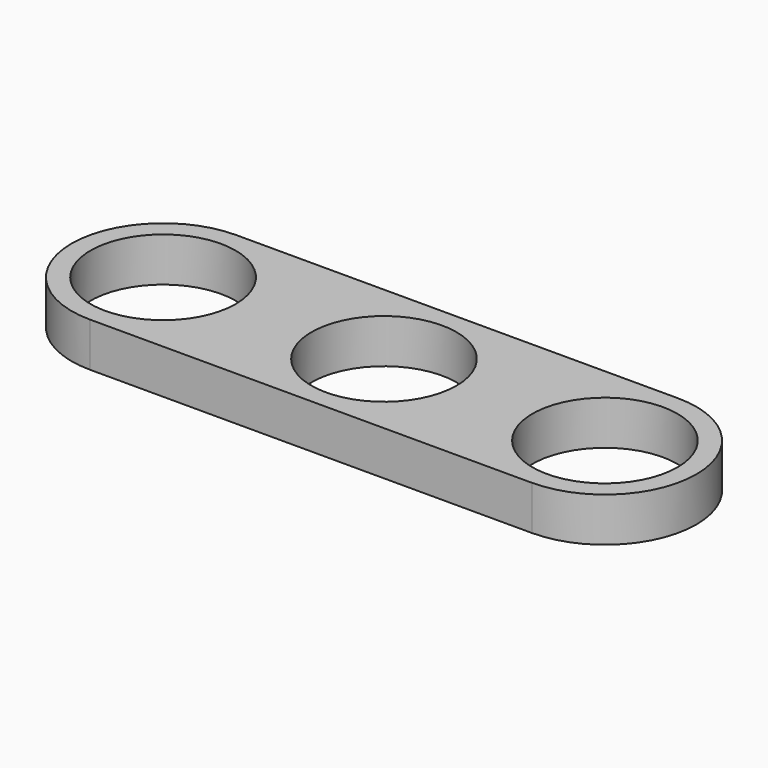
from build123d import *

# Parameters (mm, degrees)
F0_R     = 11.49
F1_DEPTH = 7


with BuildPart() as f1:
    # F0 (on Top) → F1 (new body)
    with BuildSketch(Plane.XY):
        with BuildLine():
            Line((35, 14.49), (-35, 14.49))
            ThreePointArc((-35, 14.49), (-49.49, 0), (-35, -14.49))
            Line((-35, -14.49), (35, -14.49))
            ThreePointArc((35, -14.49), (49.49, 0), (35, 14.49))
        make_face()
        with Locations((-35, 0)):
            Circle(F0_R, mode=Mode.SUBTRACT)
        Circle(F0_R, mode=Mode.SUBTRACT)
        with Locations((35, 0)):
            Circle(F0_R, mode=Mode.SUBTRACT)
    extrude(amount=F1_DEPTH)


solid = f1.part
